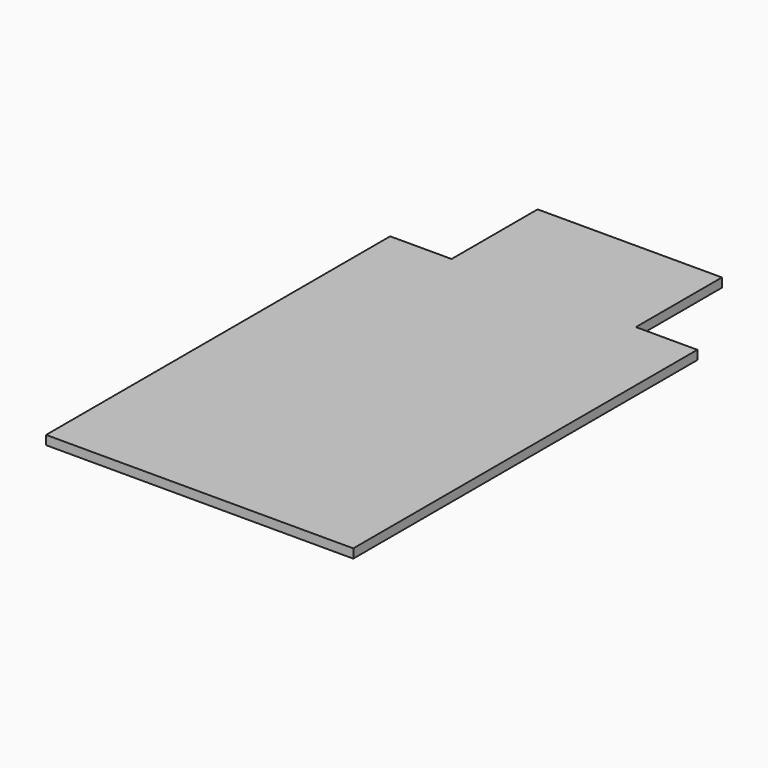
from build123d import *

# Parameters (mm, degrees)
F0_W     = 2000
F0_H     = 3500
F1_DEPTH = 59
F2_W     = 400
F2_H     = 700
F3_DEPTH = 59.001


with BuildPart() as f1:
    # F0 (on Top) → F1 (new body)
    with BuildSketch(Plane.XY):
        Rectangle(F0_W, F0_H)
    extrude(amount=F1_DEPTH)

    # F2 (on face) → F3 (cut, through all)
    with BuildSketch(Plane.XY.offset(59)):
        with Locations((-800, 1400)):
            Rectangle(F2_W, F2_H)
        with Locations((800, 1400)):
            Rectangle(F2_W, F2_H)
    extrude(amount=-F3_DEPTH, mode=Mode.SUBTRACT)


solid = f1.part
